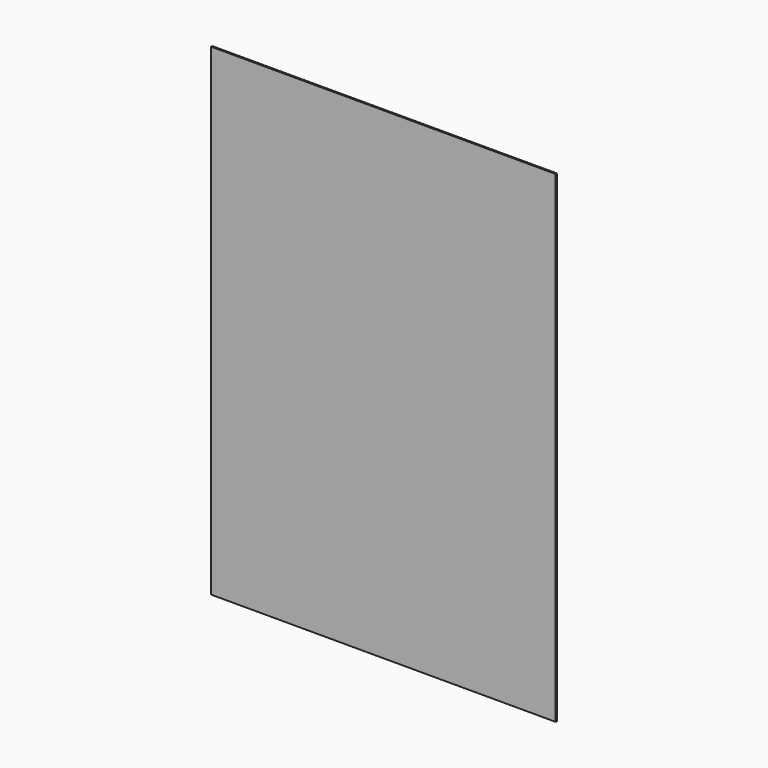
from build123d import *

# Parameters (mm, degrees)
F0_W     = 500
F0_H     = 700
F1_DEPTH = 2


with BuildPart() as f1:
    # F0 (on Front) → F1 (new body)
    with BuildSketch(Plane.XZ):
        Rectangle(F0_W, F0_H)
        Rectangle(F0_W, F0_H)
    extrude(amount=F1_DEPTH)


solid = f1.part
